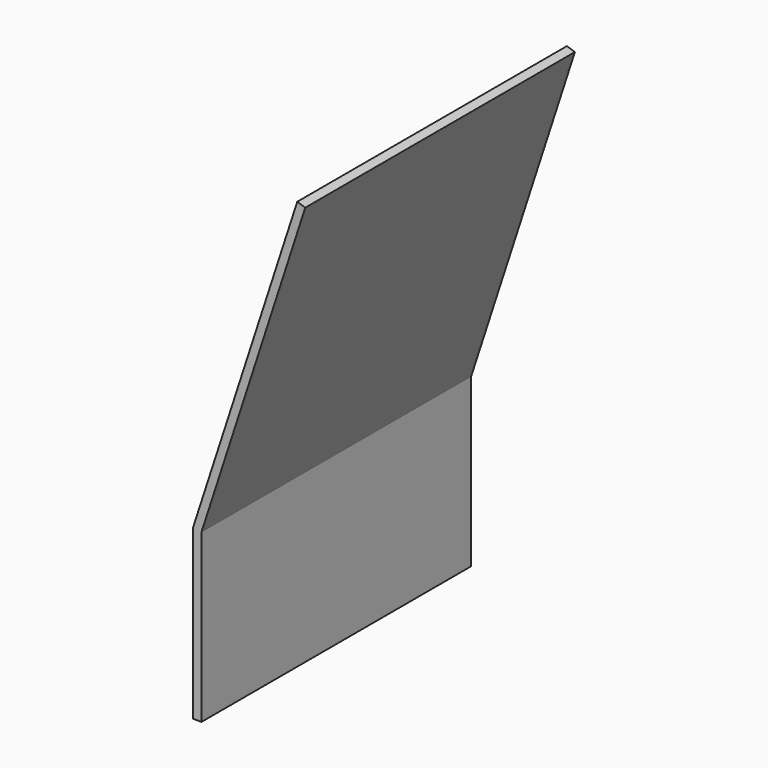
from build123d import *

# Parameters (mm, degrees)
F1_DEPTH = 101.6


with BuildPart() as f1:
    # F0 (on Front) → F1 (new body)
    with BuildSketch(Plane.XZ):
        Polygon((31.396127, 96.627342), (0, 0), (2.54, -0.402296), (33.81181, 95.842439), align=None)
        Polygon((2.54, -0.402296), (0, 0), (0, -50.8), (2.54, -50.8), align=None)
        Polygon((2.54, -0.402296), (0, 0), (0, -50.8), (2.54, -50.8), align=None)
    extrude(amount=F1_DEPTH)


solid = f1.part
